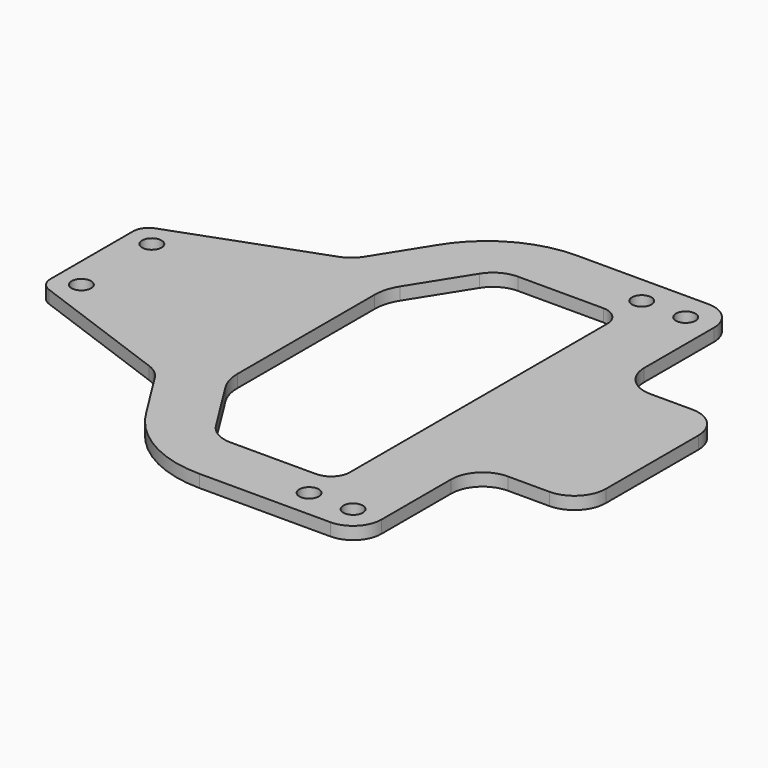
from build123d import *

# Parameters (mm, degrees)
F0_R     = 1.55
F1_DEPTH = 2


with BuildPart() as f1:
    # F0 (on Top) → F1 (new body)
    with BuildSketch(Plane.XY):
        with BuildLine():
            Line((24.31838, 19.181142), (24.31838, 33.05))
            ThreePointArc((24.31838, 33.05), (23.000361, 36.231981), (19.81838, 37.55))
            Line((19.81838, 37.55), (-1.037385, 37.55))
            ThreePointArc((-1.037385, 37.55), (-9.969408, 35.177507), (-16.546857, 28.685441))
            Line((-16.546857, 28.685441), (-21.480482, 20.840884))
            ThreePointArc((-21.480482, 20.840884), (-22.568149, 19.615657), (-23.993472, 18.807786))
            Line((-23.993472, 18.807786), (-46.541382, 10.54976))
            ThreePointArc((-46.541382, 10.54976), (-47.730939, 9.634135), (-48.181621, 8.202248))
            Line((-48.181621, 8.202248), (-48.181621, -8.202248))
            ThreePointArc((-48.181621, -8.202248), (-47.730939, -9.634135), (-46.541382, -10.54976))
            Line((-46.541382, -10.54976), (-23.993472, -18.807786))
            ThreePointArc((-23.993472, -18.807786), (-22.568149, -19.615657), (-21.480482, -20.840884))
            Line((-21.480482, -20.840884), (-16.546857, -28.685441))
            ThreePointArc((-16.546857, -28.685441), (-9.969408, -35.177507), (-1.037385, -37.55))
            Line((-1.037385, -37.55), (19.81838, -37.55))
            ThreePointArc((19.81838, -37.55), (23.000361, -36.231981), (24.31838, -33.05))
            Line((24.31838, -33.05), (24.31838, -19.181142))
            ThreePointArc((24.31838, -19.181142), (25.782846, -15.645608), (29.31838, -14.181142))
            Line((29.31838, -14.181142), (35.911883, -14.181142))
            ThreePointArc((35.911883, -14.181142), (39.447417, -12.716676), (40.911883, -9.181142))
            Line((40.911883, -9.181142), (40.911883, 0))
            Line((40.911883, 0), (40.911883, 9.181142))
            ThreePointArc((40.911883, 9.181142), (39.447417, 12.716676), (35.911883, 14.181142))
            Line((35.911883, 14.181142), (29.31838, 14.181142))
            ThreePointArc((29.31838, 14.181142), (25.782846, 15.645608), (24.31838, 19.181142))
        make_face()
        with Locations((-44.231621, -7)):
            Circle(F0_R, mode=Mode.SUBTRACT)
        with Locations((12.81838, -33.05)):
            Circle(F0_R, mode=Mode.SUBTRACT)
        with Locations((19.81838, -33.05)):
            Circle(F0_R, mode=Mode.SUBTRACT)
        with Locations((-44.231621, 7)):
            Circle(F0_R, mode=Mode.SUBTRACT)
        with BuildLine():
            Line((-13.039333, 17.357413), (-7.470524, 26.211925))
            ThreePointArc((-7.470524, 26.211925), (-5.655694, 27.926621), (-3.238012, 28.55))
            Line((-3.238012, 28.55), (10.31838, 28.55))
            ThreePointArc((10.31838, 28.55), (12.439701, 27.67132), (13.31838, 25.55))
            Line((13.31838, 25.55), (13.31838, -25.55))
            ThreePointArc((13.31838, -25.55), (12.439701, -27.67132), (10.31838, -28.55))
            Line((10.31838, -28.55), (-3.238012, -28.55))
            ThreePointArc((-3.238012, -28.55), (-5.655694, -27.926621), (-7.470524, -26.211925))
            Line((-7.470524, -26.211925), (-13.039333, -17.357413))
            ThreePointArc((-13.039333, -17.357413), (-13.839835, -15.569969), (-14.113817, -13.630718))
            Line((-14.113817, -13.630718), (-14.113817, 13.630718))
            ThreePointArc((-14.113817, 13.630718), (-13.839835, 15.569969), (-13.039333, 17.357413))
        make_face(mode=Mode.SUBTRACT)
        with Locations((12.81838, 33.05)):
            Circle(F0_R, mode=Mode.SUBTRACT)
        with Locations((19.81838, 33.05)):
            Circle(F0_R, mode=Mode.SUBTRACT)
    extrude(amount=F1_DEPTH)


solid = f1.part
